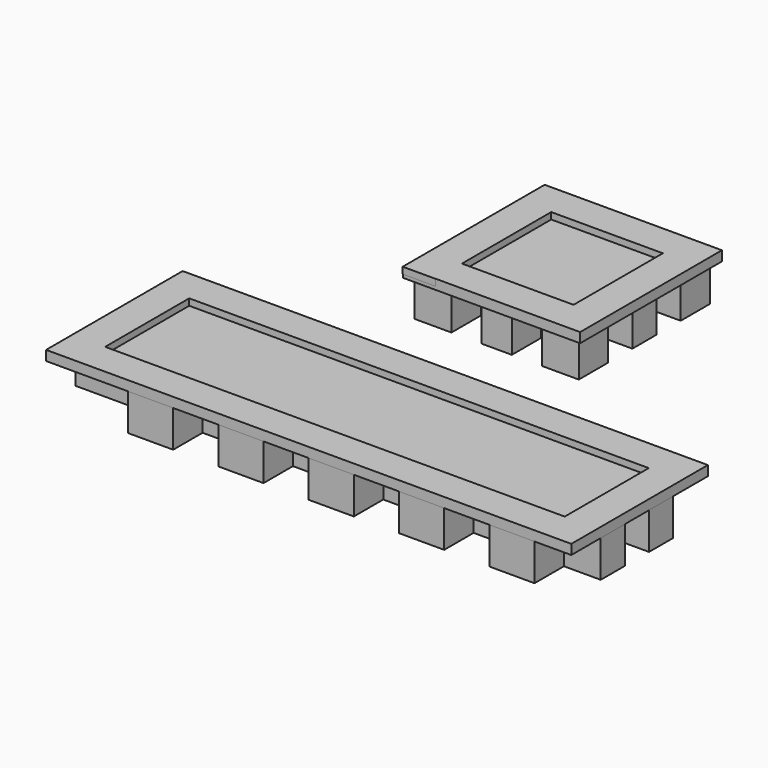
from build123d import *

# Parameters (mm, degrees)
F0_W      = 8.7376
F0_H      = 7.112
F0_W_2    = 7.112
F0_H_2    = 5.842
F1_DEPTH  = 7.112
F2_W      = 7.112
F2_H      = 7.112
F2_W_2    = 87.376
F2_H_2    = 17.526
F2_H_3    = 8.382
F3_DEPTH  = 0.635
F4_W      = 7.112
F4_H      = 7.112
F5_DEPTH  = 7.112
F4_W_2    = 5.842
F4_H_2    = 5.842
F6_W      = 8.382
F6_H      = 8.382
F6_W_2    = 17.526
F6_H_2    = 17.526
F7_DEPTH  = 0.635
F8_W      = 6.35
F8_H      = 6.35
F8_W_2    = 88.9
F8_H_2    = 20.32
F9_DEPTH  = 1.27
F10_W     = 6.35
F10_H     = 6.35
F10_W_2   = 21.59
F10_H_2   = 21.59
F10_H_3   = 0.0370688408
F11_DEPTH = 1.27


with BuildPart() as f1:
    # F0 (on Top) → F1 (new body)
    with BuildSketch(Plane.XY):
        Polygon((-36.2743366156, 4.2619839477), (-45.0119366156, 4.2619839477), (-45.0119366156, -1.5800160523), (-45.0119366156, -7.4220160523), (-45.0119366156, -13.2640160523), (-36.2743366156, -13.2640160523), (-27.5367366156, -13.2640160523), (-18.7991366156, -13.2640160523), (-10.0615366156, -13.2640160523), (-1.3239366156, -13.2640160523), (7.4136633844, -13.2640160523), (16.1512633844, -13.2640160523), (24.8888633844, -13.2640160523), (33.6264633844, -13.2640160523), (42.3640633844, -13.2640160523), (42.3640633844, -7.4220160523), (42.3640633844, -1.5800160523), (42.3640633844, 4.2619839477), (33.6264633844, 4.2619839477), (24.8888633844, 4.2619839477), (16.1512633844, 4.2619839477), (7.4136633844, 4.2619839477), (-1.3239366156, 4.2619839477), (-10.0615366156, 4.2619839477), (-18.7991366156, 4.2619839477), (-27.5367366156, 4.2619839477), align=None)
        with Locations((-40.6431366156, 7.8179839477)):
            Rectangle(F0_W, F0_H)
        with Locations((-23.1679366156, 7.8179839477)):
            Rectangle(F0_W, F0_H)
        with Locations((-5.6927366156, 7.8179839477)):
            Rectangle(F0_W, F0_H)
        with Locations((11.7824633844, 7.8179839477)):
            Rectangle(F0_W, F0_H)
        with Locations((29.2576633844, 7.8179839477)):
            Rectangle(F0_W, F0_H)
        with Locations((45.9200633844, 1.3409839477)):
            Rectangle(F0_W_2, F0_H_2)
        with Locations((45.9200633844, -10.3430160523)):
            Rectangle(F0_W_2, F0_H_2)
        with Locations((37.9952633844, -16.8200160523)):
            Rectangle(F0_W, F0_H)
        with Locations((20.5200633844, -16.8200160523)):
            Rectangle(F0_W, F0_H)
        with Locations((3.0448633844, -16.8200160523)):
            Rectangle(F0_W, F0_H)
        with Locations((-14.4303366156, -16.8200160523)):
            Rectangle(F0_W, F0_H)
        with Locations((-31.9055366156, -16.8200160523)):
            Rectangle(F0_W, F0_H)
        with Locations((-48.5679366156, -10.3430160523)):
            Rectangle(F0_W_2, F0_H_2)
        with Locations((-48.5679366156, 1.3409839477)):
            Rectangle(F0_W_2, F0_H_2)
    extrude(amount=F1_DEPTH)


with BuildPart() as f3:
    # F2 (on face) → F3 (new body)
    with BuildSketch(Plane.XY.offset(7.112)):
        with Locations((-48.5679366156, -16.8200160523)):
            Rectangle(F2_W, F2_H)
        with Locations((-1.3239366156, -16.8200160523)):
            Rectangle(F2_W_2, F2_H)
        with Locations((-48.5679366156, -4.5010160523)):
            Rectangle(F2_W, F2_H_2)
        with Locations((45.9200633844, -16.8200160523)):
            Rectangle(F2_W, F2_H)
        with Locations((-48.5679366156, 8.4529839477)):
            Rectangle(F2_W, F2_H_3)
        with Locations((-1.3239366156, 8.4529839477)):
            Rectangle(F2_W_2, F2_H_3)
        with Locations((45.9200633844, -4.5010160523)):
            Rectangle(F2_W, F2_H_2)
        with Locations((45.9200633844, 8.4529839477)):
            Rectangle(F2_W, F2_H_3)
        Polygon((-45.0119366156, -7.4220160523), (-45.0119366156, -13.2640160523), (-36.2743366156, -13.2640160523), (-27.5367366156, -13.2640160523), (-18.7991366156, -13.2640160523), (-10.0615366156, -13.2640160523), (-1.3239366156, -13.2640160523), (7.4136633844, -13.2640160523), (16.1512633844, -13.2640160523), (24.8888633844, -13.2640160523), (33.6264633844, -13.2640160523), (42.3640633844, -13.2640160523), (42.3640633844, -7.4220160523), (42.3640633844, -1.5800160523), (42.3640633844, 4.2619839477), (33.6264633844, 4.2619839477), (24.8888633844, 4.2619839477), (16.1512633844, 4.2619839477), (7.4136633844, 4.2619839477), (-1.3239366156, 4.2619839477), (-10.0615366156, 4.2619839477), (-18.7991366156, 4.2619839477), (-27.5367366156, 4.2619839477), (-36.2743366156, 4.2619839477), (-45.0119366156, 4.2619839477), (-45.0119366156, -1.5800160523), align=None)
    extrude(amount=F3_DEPTH)

    # F8 (on face) → F9 (join)
    with BuildSketch(Plane.XY.offset(7.747)):
        with Locations((-48.9489366156, 9.4689839477)):
            Rectangle(F8_W, F8_H)
        with Locations((-1.3239366156, 9.4689839477)):
            Rectangle(F8_W_2, F8_H)
        with Locations((-48.9489366156, -3.8660160523)):
            Rectangle(F8_W, F8_H_2)
        with Locations((46.3010633844, 9.4689839477)):
            Rectangle(F8_W, F8_H)
        with Locations((-48.9489366156, -17.2010160523)):
            Rectangle(F8_W, F8_H)
        with Locations((46.3010633844, -3.8660160523)):
            Rectangle(F8_W, F8_H_2)
        with Locations((-1.3239366156, -17.2010160523)):
            Rectangle(F8_W_2, F8_H)
        with Locations((46.3010633844, -17.2010160523)):
            Rectangle(F8_W, F8_H)
    extrude(amount=F9_DEPTH)


with BuildPart() as f5:
    # F4 (on Top) → F5 (new body)
    with BuildSketch(Plane.XY):
        with Locations((-22.2249995264, 64.0173197334)):
            Rectangle(F4_W, F4_H)
    extrude(amount=F5_DEPTH)


with BuildPart() as f5b:
    # F4 (on Top) → F5, piece 2 (new body)
    with BuildSketch(Plane.XY):
        with Locations((-9.9059995264, 64.0173197334)):
            Rectangle(F4_W_2, F4_H)
        Polygon((-12.8269995264, 60.4613197334), (-18.6689995264, 60.4613197334), (-18.6689995264, 54.6193197334), (-18.6689995264, 48.7773197334), (-18.6689995264, 42.9353197334), (-12.8269995264, 42.9353197334), (-6.9849995264, 42.9353197334), (-1.1429995264, 42.9353197334), (-1.1429995264, 48.7773197334), (-1.1429995264, 54.6193197334), (-1.1429995264, 60.4613197334), (-6.9849995264, 60.4613197334), align=None)
        with Locations((2.4130004736, 51.6983197334)):
            Rectangle(F4_W, F4_H_2)
        with Locations((-9.9059995264, 39.3793197334)):
            Rectangle(F4_W_2, F4_H)
        with Locations((-22.2249995264, 51.6983197334)):
            Rectangle(F4_W, F4_H_2)
    extrude(amount=F5_DEPTH)


with BuildPart() as f5c:
    # F4 (on Top) → F5, piece 3 (new body)
    with BuildSketch(Plane.XY):
        with Locations((2.4130004736, 64.0173197334)):
            Rectangle(F4_W, F4_H)
    extrude(amount=F5_DEPTH)


with BuildPart() as f5d:
    # F4 (on Top) → F5, piece 4 (new body)
    with BuildSketch(Plane.XY):
        with Locations((2.4130004736, 39.3793197334)):
            Rectangle(F4_W, F4_H)
    extrude(amount=F5_DEPTH)


with BuildPart() as f5e:
    # F4 (on Top) → F5, piece 5 (new body)
    with BuildSketch(Plane.XY):
        with Locations((-22.2249995264, 39.3793197334)):
            Rectangle(F4_W, F4_H)
    extrude(amount=F5_DEPTH)


with BuildPart() as f7:
    # F6 (on face) → F7 (new body)
    with BuildSketch(Plane.XY.offset(7.112)):
        with Locations((-22.8599995264, 38.7443197334)):
            Rectangle(F6_W, F6_H)
        with Locations((-9.9059995264, 38.7443197334)):
            Rectangle(F6_W_2, F6_H)
        with Locations((-22.8599995264, 51.6983197334)):
            Rectangle(F6_W, F6_H_2)
        with Locations((3.0480004736, 38.7443197334)):
            Rectangle(F6_W, F6_H)
        with Locations((-22.8599995264, 64.6523197334)):
            Rectangle(F6_W, F6_H)
        with Locations((-9.9059995264, 64.6523197334)):
            Rectangle(F6_W_2, F6_H)
        with Locations((3.0480004736, 51.6983197334)):
            Rectangle(F6_W, F6_H_2)
        with Locations((3.0480004736, 64.6523197334)):
            Rectangle(F6_W, F6_H)
        Polygon((-18.6689995264, 48.7773197334), (-18.6689995264, 42.9353197334), (-12.8269995264, 42.9353197334), (-6.9849995264, 42.9353197334), (-1.1429995264, 42.9353197334), (-1.1429995264, 48.7773197334), (-1.1429995264, 54.6193197334), (-1.1429995264, 60.4613197334), (-6.9849995264, 60.4613197334), (-12.8269995264, 60.4613197334), (-18.6689995264, 60.4613197334), (-18.6689995264, 54.6193197334), align=None)
    extrude(amount=F7_DEPTH)

    # F10 (on face) → F11 (join)
    with BuildSketch(Plane.XY.offset(7.747)):
        with Locations((-23.8759995264, 65.6683197334)):
            Rectangle(F10_W, F10_H)
        with Locations((-9.9059995264, 65.6683197334)):
            Rectangle(F10_W_2, F10_H)
        with Locations((-23.8759995264, 51.6983197334)):
            Rectangle(F10_W, F10_H_2)
        with Locations((4.0640004736, 65.6683197334)):
            Rectangle(F10_W, F10_H)
        with Locations((-23.8759995264, 37.7283197334)):
            Rectangle(F10_W, F10_H)
        with Locations((4.0640004736, 51.6983197334)):
            Rectangle(F10_W, F10_H_2)
        with Locations((-9.9059995264, 37.7283197334)):
            Rectangle(F10_W_2, F10_H)
        with Locations((-23.8759995264, 34.534785313)):
            Rectangle(F10_W, F10_H_3)
        with Locations((4.0640004736, 37.7283197334)):
            Rectangle(F10_W, F10_H)
    extrude(amount=F11_DEPTH)


solid = Compound([f1.part, f3.part, f5.part, f5b.part, f5c.part, f5d.part, f5e.part, f7.part])
